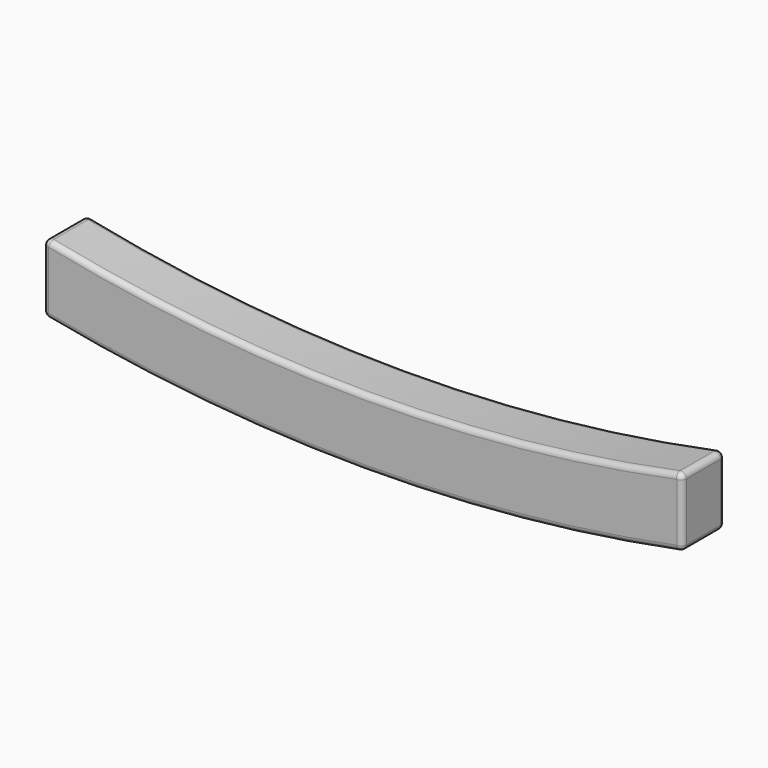
from build123d import *

# Parameters (mm, degrees)
F1_DEPTH = 30
F2_R     = 3


with BuildPart() as f1:
    # F0 (on Front) → F1 (new body)
    with BuildSketch(Plane.XZ):
        with BuildLine():
            ThreePointArc((180, -20.182252), (0, -38.788033), (-180, -20.182252))
            Line((-180, -20.182252), (-180, -58.968014))
            ThreePointArc((-180, -58.968014), (0, -76.788032), (180, -58.968014))
            Line((180, -58.968014), (180, -20.182252))
        make_face()
    extrude(amount=-F1_DEPTH)

    # F2
    f2_edges = [f1.edges().sort_by_distance(p)[0] for p in [
        (-180, 15, -20.182252),
        (-180, 15, -58.968014),
        (-180, 0, -39.575133),
        (-180, 30, -39.575133),
        (180, 15, -58.968014),
        (180, 15, -20.182252),
        (180, 0, -39.575133),
        (180, 30, -39.575133),
        (0, 0, -38.788033),
        (0, 30, -38.788033),
        (0, 0, -76.788032),
        (0, 30, -76.788032),
    ]]
    fillet(f2_edges, radius=F2_R)


solid = f1.part
